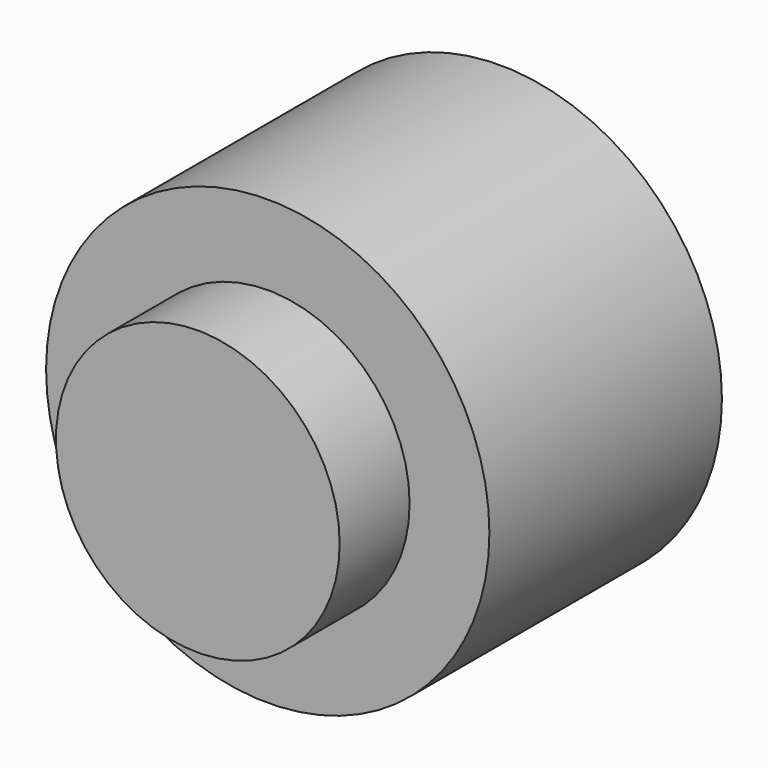
from build123d import *

# Parameters (mm, degrees)
F0_R     = 25.763606
F1_DEPTH = 33.782
F2_R     = 16.488004
F3_DEPTH = 10.16


with BuildPart() as f1:
    # F0 (on Front) → F1 (new body)
    with BuildSketch(Plane.XZ):
        Circle(F0_R)
        Circle(F0_R)
    extrude(amount=F1_DEPTH)

    # F2 (on face) → F3 (join)
    with BuildSketch(Plane.XZ.offset(33.782)):
        Circle(F2_R)
    extrude(amount=F3_DEPTH)


solid = f1.part
